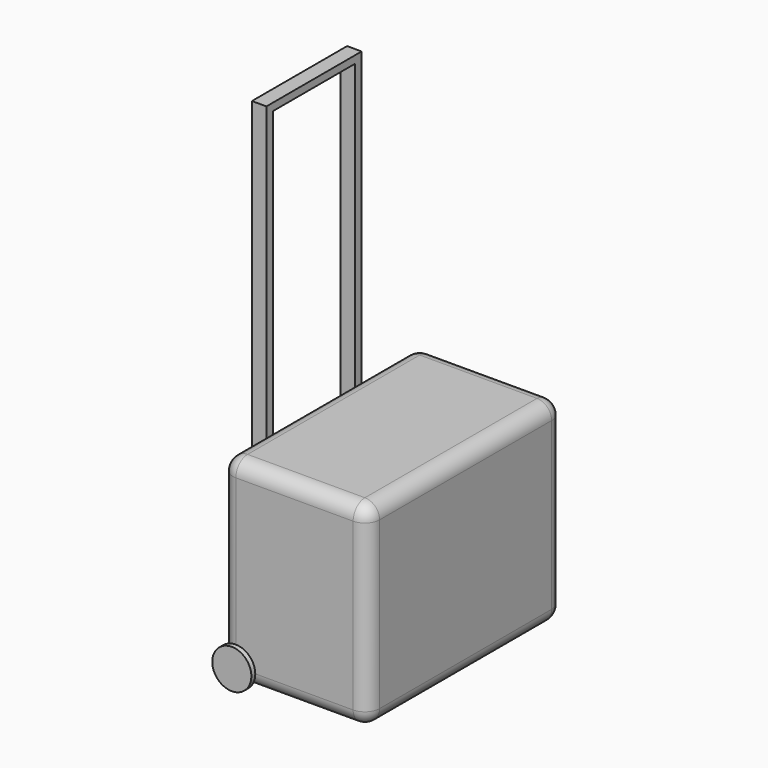
from build123d import *

# Parameters (mm, degrees)
F0_W      = 76.2
F0_H      = 101.6
F1_DEPTH  = 127
F2_R      = 7.62
F4_R      = 10.16
F5_DEPTH  = 2.54
F7_R      = 10.16
F8_DEPTH  = 2.54
F10_W     = 7.5408555567
F10_H     = 61.8350096047
F11_DEPTH = 177.8
F12_W     = 53.2229803503
F12_H     = 168.5394383967
F13_DEPTH = 7.5408555567


with BuildPart() as f1:
    # F0 (on Front) → F1 (new body)
    with BuildSketch(Plane.XZ):
        with Locations((-7.4493430227, -3.9810621095)):
            Rectangle(F0_W, F0_H)
    extrude(amount=F1_DEPTH)

    # F2
    f2_edges = [f1.edges().sort_by_distance(p)[0] for p in [
        (-7.449343, -127, 46.818938),
        (30.650657, -63.5, 46.818938),
        (-7.449343, 0, 46.818938),
        (-45.549343, -63.5, 46.818938),
        (-45.549343, -127, -3.981062),
        (30.650657, -127, -3.981062),
        (30.650657, 0, -3.981062),
        (30.650657, -63.5, -54.781062),
        (-7.449343, -127, -54.781062),
        (-45.549343, 0, -3.981062),
        (-45.549343, -63.5, -54.781062),
        (-7.449343, 0, -54.781062),
    ]]
    fillet(f2_edges, radius=F2_R)


with BuildPart() as f5:
    # F4 (on offset) → F5 (new body)
    with BuildSketch(Plane.XZ.offset(129.54)):
        with Locations((-38.0047485232, -47.2559072077)):
            Circle(F4_R)
    extrude(amount=-F5_DEPTH)


with BuildPart() as f8:
    # F7 (on offset) → F8 (new body)
    with BuildSketch(Plane(origin=(0, 2.54, 0), x_dir=(-1, 0, 0), z_dir=(0, 1, 0))):
        with Locations((37.7547219396, -47.0058731735)):
            Circle(F7_R)
    extrude(amount=-F8_DEPTH)


with BuildPart() as f11:
    # F10 (on offset) → F11 (new body)
    with BuildSketch(Plane.XY.offset(16.3389378905)):
        with Locations((-50.0002782792, -65.8553447574)):
            Rectangle(F10_W, F10_H)
    extrude(amount=F11_DEPTH)

    # F12 (on face) → F13 (cut, through all)
    with BuildSketch(Plane(origin=(-53.7707060575, 0, 0), x_dir=(0, -1, 0), z_dir=(-1, 0, 0))):
        with Locations((65.7632816583, 105.9831064194)):
            Rectangle(F12_W, F12_H)
    extrude(amount=-F13_DEPTH, mode=Mode.SUBTRACT)


solid = Compound([f1.part, f5.part, f8.part, f11.part])
